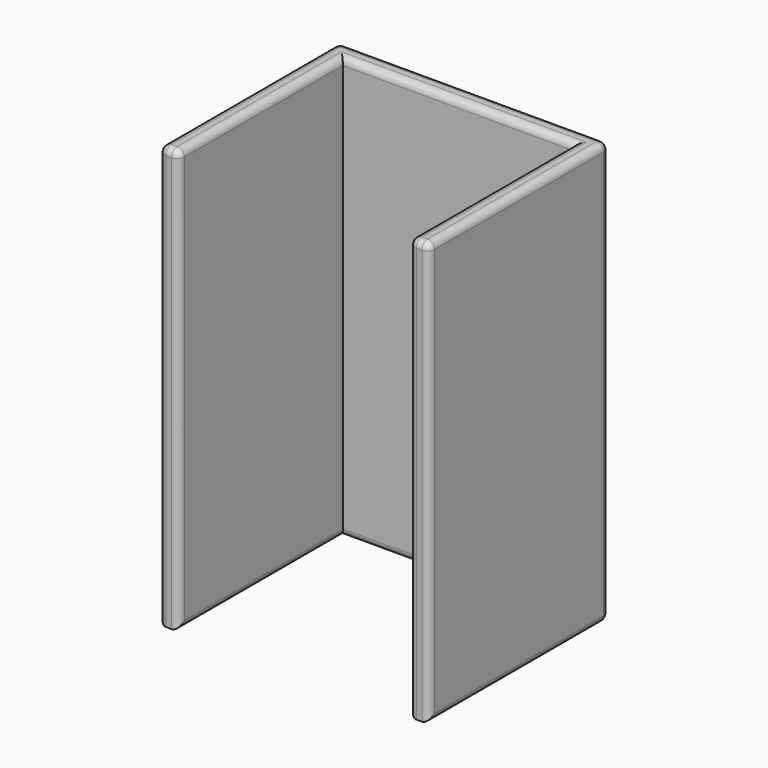
from build123d import *

# Parameters (mm, degrees)
PAD_DEPTH = 30
FILLET_R  = 0.5


with BuildPart() as part:
    # Sketch → Pad (new body)
    with BuildSketch(Plane.XY):
        Polygon((-1.4, 1.4), (-1.4, -14.6), (0, -14.6), (0, 0), (16.4, 0), (16.4, -14.6), (17.8, -14.6), (17.8, 1.4), align=None)
    extrude(amount=PAD_DEPTH)

    # Fillet
    fillet_edges = [part.edges().sort_by_distance(p)[0] for p in [
        (17.8, -6.6, 30),
        (17.1, -14.6, 30),
        (16.4, -7.3, 30),
        (8.2, 0, 30),
        (8.2, 1.4, 30),
        (-1.4, -6.6, 30),
        (0, -7.3, 30),
        (-1.4, 1.4, 15),
        (17.8, 1.4, 15),
        (17.8, -14.6, 15),
        (16.4, -14.6, 15),
        (0, -14.6, 15),
        (-1.4, -14.6, 15),
        (-0.7, -14.6, 30),
        (17.8, -6.6, 0),
        (16.4, -7.3, 0),
        (0, -7.3, 0),
        (-1.4, -6.6, 0),
        (8.2, 1.4, 0),
        (8.2, 0, 0),
    ]]
    fillet(fillet_edges, radius=FILLET_R)


solid = part.part
